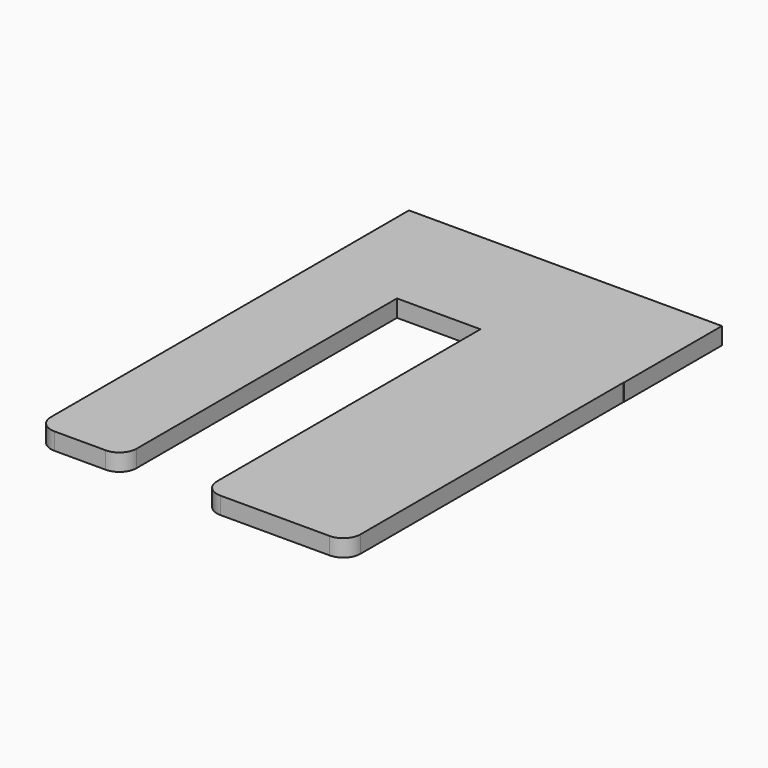
from build123d import *

# Parameters (mm, degrees)
F0_W     = 41.33233428
F0_H     = 35.7883912511
F1_DEPTH = 5
F2_W     = 41.8983511627
F2_H     = 101.1332413182
F3_DEPTH = 5
F4_DEPTH = 25
F5_DEPTH = 25
F6_W     = 25
F6_H     = 100
F7_DEPTH = 5
F8_R     = 5


with BuildPart() as f1:
    # F0 (on Top) → F1 (new body)
    with BuildSketch(Plane.XY):
        with Locations((-47.535456717, 24.881032994)):
            Rectangle(F0_W, F0_H)
    extrude(amount=F1_DEPTH)

    # F2 (on Top) → F3 (join)
    with BuildSketch(Plane.XY):
        with Locations((-47.8867311031, -43.418653775)):
            Rectangle(F2_W, F2_H)
    extrude(amount=F3_DEPTH)

    # F4 (add): a face of the model
    f4_faces = [f1.faces().sort_by_distance(p)[0] for p in [
        (-68.201623857, 24.9615977518, 2.5),
    ]]
    extrude(f4_faces, amount=F4_DEPTH)

    # F5 (add): a face of the model
    f5_faces = [f1.faces().sort_by_distance(p)[0] for p in [
        (-93.201623857, 24.9615977518, 2.5),
    ]]
    extrude(f5_faces, amount=F5_DEPTH)

    # F6 (on Top) → F7 (join)
    with BuildSketch(Plane.XY):
        with Locations((-105.701623857, -42.8520331159)):
            Rectangle(F6_W, F6_H)
    extrude(amount=F7_DEPTH)

    # F8
    f8_edges = [f1.edges().sort_by_distance(p)[0] for p in [
        (-118.201624, -92.852033, 2.5),
        (-93.201624, -92.852033, 2.5),
        (-68.835907, -93.985274, 2.5),
        (-26.937556, -93.985274, 2.5),
    ]]
    fillet(f8_edges, radius=F8_R)


solid = f1.part
